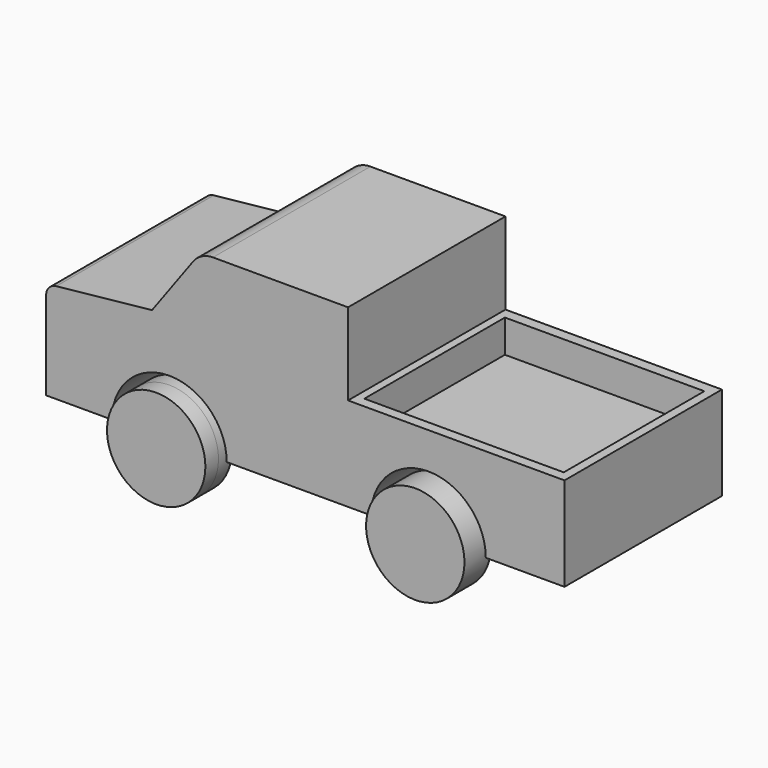
from build123d import *

# Parameters (mm, degrees)
F1_DEPTH = 152.4
F2_R     = 38.1
F3_DEPTH = 12.7
F4_R     = 6.35
F5_DEPTH = 152.4
F4_R_2   = 38.1
F6_DEPTH = 12.7
F7_W     = 154.46949
F7_H     = 136.090693
F8_DEPTH = 25.4


with BuildPart() as f1:
    # F0 (on Front) → F1 (new body)
    with BuildSketch(Plane.XZ):
        with BuildLine():
            Line((0, 68.195408), (0, 0))
            Line((0, 0), (50.9959, 0))
            ThreePointArc((50.9959, 0), (95.4459, 44.45), (139.8959, 0))
            Line((139.8959, 0), (251.6559, 0))
            ThreePointArc((251.6559, 0), (296.1059, 44.45), (340.5559, 0))
            Line((340.5559, 0), (401.5159, 0))
            Line((401.5159, 0), (401.5159, 72.589343))
            Line((401.5159, 72.589343), (233.8759, 72.589343))
            Line((233.8759, 72.589343), (233.8759, 136.089343))
            Line((233.8759, 136.089343), (129.246439, 136.089343))
            ThreePointArc((129.246439, 136.089343), (120.623358, 134.025954), (113.868284, 128.282778))
            Line((113.868284, 128.282778), (82.097782, 84.828825))
            Line((82.097782, 84.828825), (7.960742, 77.036708))
            ThreePointArc((7.960742, 77.036708), (2.283443, 74.143979), (0, 68.195408))
        make_face()
    extrude(amount=F1_DEPTH)

    # F7 (on face) → F8 (cut)
    with BuildSketch(Plane.XY.offset(72.589343)):
        with Locations((317.346245, -76.394113)):
            Rectangle(F7_W, F7_H)
    extrude(amount=-F8_DEPTH, mode=Mode.SUBTRACT)


with BuildPart() as f3:
    # F2 (on face) → F3 (new body, symmetric)
    with BuildSketch(Plane.XZ.offset(152.4)):
        with Locations((95.4459, 0)):
            Circle(F2_R)
        with Locations((296.1059, 0)):
            Circle(F2_R)
    extrude(amount=F3_DEPTH, both=True)


with BuildPart() as f5:
    # F4 (on face) → F5 (new body)
    with BuildSketch(Plane(origin=(0, 0, 0), x_dir=(-1, 0, 0), z_dir=(0, 1, 0))):
        with Locations((-296.1059, 0)):
            Circle(F4_R)
        with Locations((-95.4459, 0)):
            Circle(F4_R)
    extrude(amount=-F5_DEPTH)


with BuildPart() as f6:
    # F4 (on face) → F6 (new body, symmetric)
    with BuildSketch(Plane(origin=(0, 0, 0), x_dir=(-1, 0, 0), z_dir=(0, 1, 0))):
        with Locations((-296.1059, 0)):
            Circle(F4_R_2)
        with Locations((-296.1059, 0)):
            Circle(F4_R, mode=Mode.SUBTRACT)
        with Locations((-95.4459, 0)):
            Circle(F4_R_2)
        with Locations((-95.4459, 0)):
            Circle(F4_R, mode=Mode.SUBTRACT)
    extrude(amount=F6_DEPTH, both=True)


solid = Compound([f1.part, f3.part, f5.part, f6.part])
